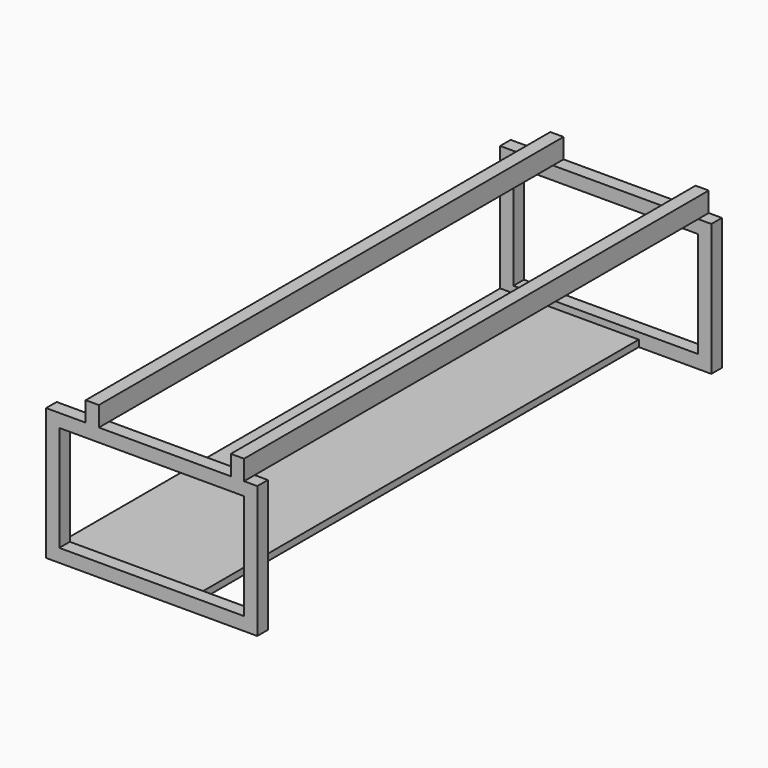
from build123d import *

# Parameters (mm, degrees)
F0_W     = 812.8
F0_H     = 584.2
F1_DEPTH = 2235.2
F2_W     = 152.4
F2_H     = 76.2
F2_W_2   = 508
F2_W_3   = 50.8
F3_DEPTH = 2235.201
F4_W     = 711.2
F4_H     = 406.4
F5_DEPTH = 2235.201
F6_W     = 2133.6
F6_H     = 482.6
F7_DEPTH = 812.801
F8_W     = 279.4
F8_H     = 2133.6
F9_DEPTH = 25.4


with BuildPart() as f1:
    # F0 (on Front) → F1 (new body)
    with BuildSketch(Plane.XZ):
        with Locations((-406.4, 292.1)):
            Rectangle(F0_W, F0_H)
    extrude(amount=F1_DEPTH)

    # F2 (on face) → F3 (cut, through all)
    with BuildSketch(Plane.XZ.offset(2235.2)):
        with Locations((-736.6, 546.1)):
            Rectangle(F2_W, F2_H)
        with Locations((-355.6, 546.1)):
            Rectangle(F2_W_2, F2_H)
        with Locations((-25.4, 546.1)):
            Rectangle(F2_W_3, F2_H)
    extrude(amount=-F3_DEPTH, mode=Mode.SUBTRACT)

    # F4 (on face) → F5 (cut, through all)
    with BuildSketch(Plane.XZ.offset(2235.2)):
        with Locations((-406.4, 254)):
            Rectangle(F4_W, F4_H)
    extrude(amount=-F5_DEPTH, mode=Mode.SUBTRACT)

    # F6 (on face) → F7 (cut, through all)
    with BuildSketch(Plane.YZ):
        with Locations((-1117.6, 266.7)):
            Rectangle(F6_W, F6_H)
    extrude(amount=-F7_DEPTH, mode=Mode.SUBTRACT)

    # F8 (on face) → F9 (cut)
    with BuildSketch(Plane.XY.offset(25.4)):
        with Locations((-139.7, -1117.6)):
            Rectangle(F8_W, F8_H)
    extrude(amount=-F9_DEPTH, mode=Mode.SUBTRACT)


solid = f1.part
